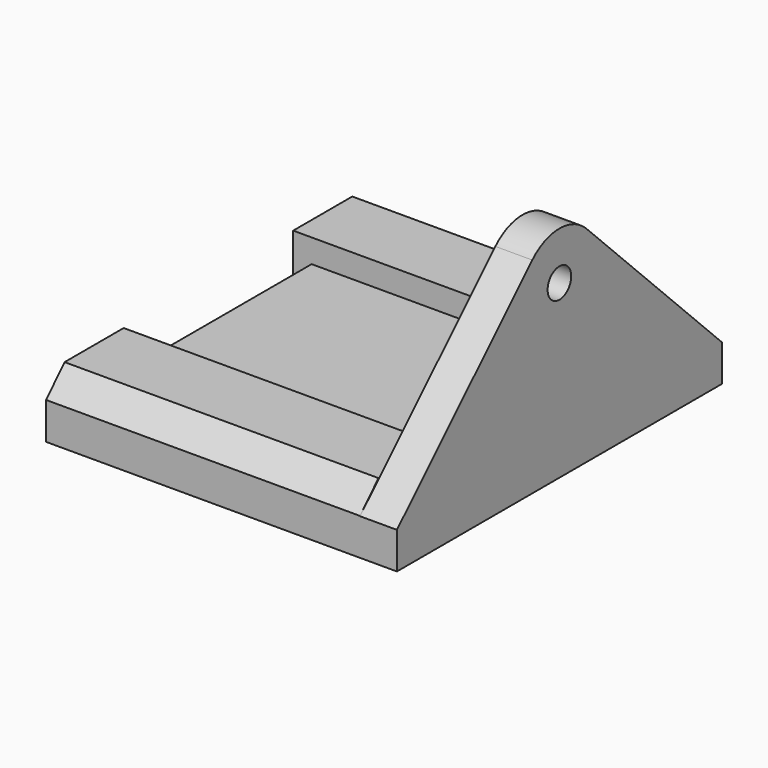
from build123d import *

# Parameters (mm, degrees)
F0_W     = 40
F0_H     = 5
F1_DEPTH = 55
F2_R     = 2
F3_DEPTH = 5
F5_DEPTH = 42.5


with BuildPart() as f1:
    # F0 (on Front) → F1 (new body)
    with BuildSketch(Plane.XZ):
        with Locations((-20, 2.5)):
            Rectangle(F0_W, F0_H)
    extrude(amount=F1_DEPTH)

    # F2 (on Right) → F3 (join)
    with BuildSketch(Plane.YZ):
        Polygon((-5.740549, 0), (0, 0), (0, 4.96355), (-55, 4.96355), (-55, 0), align=None)
        with BuildLine():
            Line((-55, 4.96355), (0, 4.96355))
            Line((0, 4.96355), (-22.910616, 27.806423))
            ThreePointArc((-22.910616, 27.806423), (-27.5, 29.703428), (-32.089384, 27.806423))
            Line((-32.089384, 27.806423), (-55, 4.96355))
        make_face()
        with Locations((-27.5, 23.203428)):
            Circle(F2_R, mode=Mode.SUBTRACT)
    extrude(amount=F3_DEPTH)

    # F4 (on Right) → F5 (join)
    with BuildSketch(Plane.YZ):
        Polygon((-55, 5), (-55, 0), (-41.870234, 0), (-41.870234, 8.235325), (-51.870234, 8.235325), align=None)
        Polygon((0, 0), (0, 5), (-3.183106, 8.18286), (-13.183106, 8.18286), (-13.183106, 0), align=None)
    extrude(amount=-F5_DEPTH)


solid = f1.part
